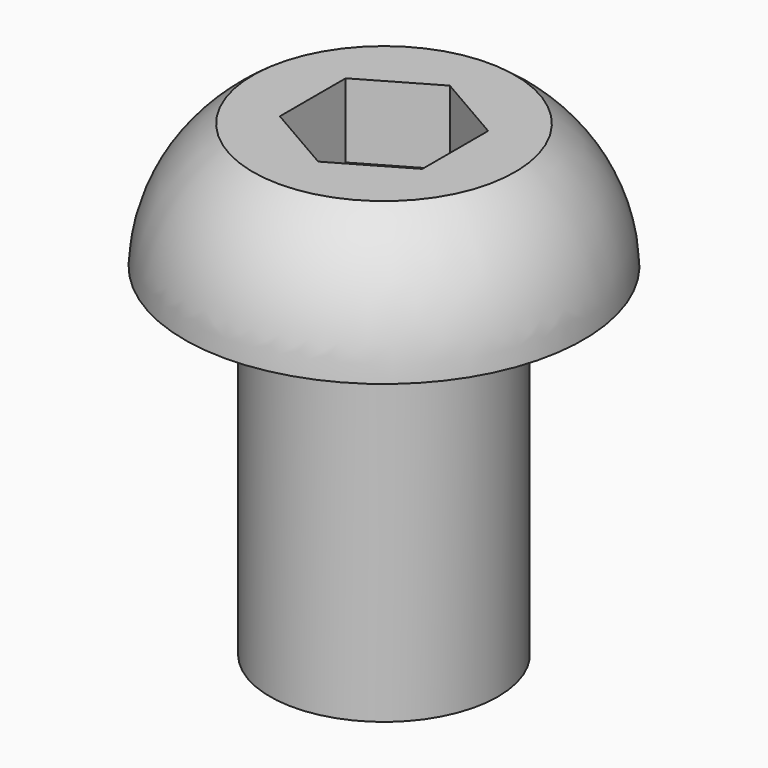
from build123d import *

# Parameters (mm, degrees)
F0_R     = 7
F1_DEPTH = 4.4
F3_DEPTH = 2.6
F6_R     = 4
F7_DEPTH = 12


with BuildPart() as f1:
    # F0 (on Top) → F1 (new body)
    with BuildSketch(Plane.XY):
        Circle(F0_R)
    extrude(amount=F1_DEPTH)

    # F2 (on face) → F3 (cut)
    with BuildSketch(Plane.XY.offset(4.4)):
        Polygon((2.5, -1.443376), (2.5, 1.443376), (0, 2.886751), (-2.5, 1.443376), (-2.5, -1.443376), (0, -2.886751), align=None)
    extrude(amount=-F3_DEPTH, mode=Mode.SUBTRACT)

    # F4 (on Right) → F5 (revolve, cut)
    with BuildSketch(Plane.YZ):
        with BuildLine():
            Line((-7, 4.4), (-7, 0))
            ThreePointArc((-7, 0), (-6.319513, 2.483371), (-4.6, 4.4))
            Line((-4.6, 4.4), (-7, 4.4))
        make_face()
    revolve(axis=Axis((0, 0, 2.2), (0, 0, 1)), mode=Mode.SUBTRACT)

    # F6 (on Top) → F7 (join)
    with BuildSketch(Plane.XY):
        Circle(F6_R)
    extrude(amount=-F7_DEPTH)


solid = f1.part
